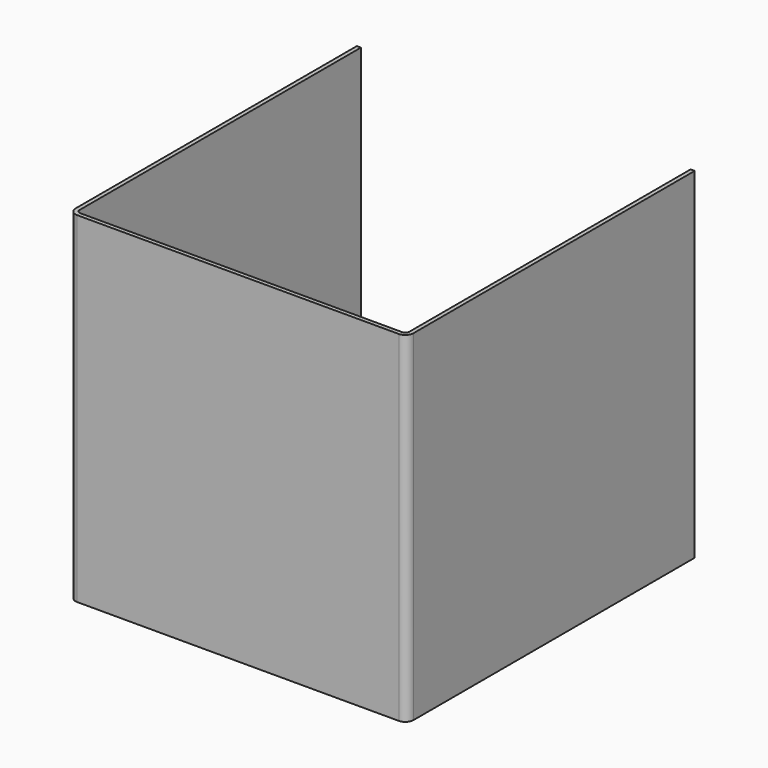
from build123d import *

# Parameters (mm, degrees)
SKETCH002_W  = 248
SKETCH002_H  = 264
PAD002_DEPTH = 250
FILLET002_R  = 6
THICKNESS_T  = -3


with BuildPart() as part:
    # Sketch002 → Pad002 (new body)
    with BuildSketch(Plane.XY):
        with Locations((0, -132)):
            Rectangle(SKETCH002_W, SKETCH002_H)
    extrude(amount=PAD002_DEPTH)

    # Fillet002
    fillet002_edges = [part.edges().sort_by_distance(p)[0] for p in [
        (124, -264, 125),
        (-124, -264, 125),
    ]]
    fillet(fillet002_edges, radius=FILLET002_R)

    # Thickness
    thickness_openings = [part.faces().sort_by_distance(p)[0] for p in [
        (0, -131.969157, 250),
        (0, 0, 125),
        (0, -131.969157, 0),
    ]]
    offset(amount=THICKNESS_T, openings=thickness_openings)


solid = part.part
